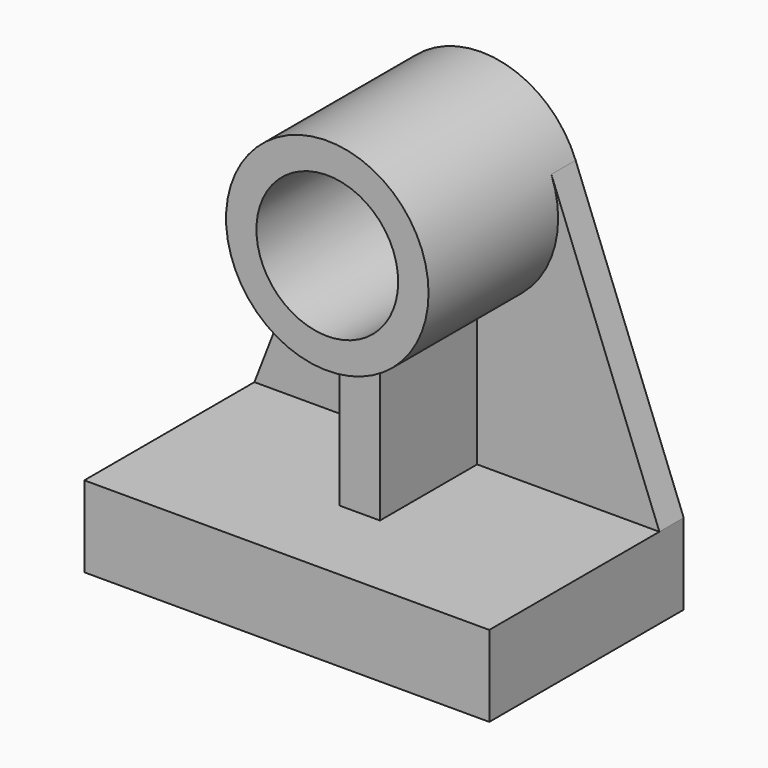
from build123d import *

# Parameters (mm, degrees)
F0_R     = 44.45
F1_DEPTH = 19.05
F2_W     = 254
F2_H     = 50.8
F3_DEPTH = 133.35
F4_R     = 63.5
F4_R_2   = 44.45
F5_DEPTH = 101.6
F7_DEPTH = 76.2


with BuildPart() as f1:
    # F0 (on Front) → F1 (new body)
    with BuildSketch(Plane.XZ):
        with BuildLine():
            Line((-137.7003500163, 50.8), (-137.7003500163, 0))
            Line((-137.7003500163, 0), (116.2996499837, 0))
            Line((116.2996499837, 0), (116.2996499837, 50.8))
            Line((116.2996499837, 50.8), (48.5273968003, 226.0981223472))
            ThreePointArc((48.5273968003, 226.0981223472), (-10.7003500163, 266.7), (-69.9280968329, 226.0981223472))
            Line((-69.9280968329, 226.0981223472), (-137.7003500163, 50.8))
        make_face()
        with Locations((-10.7003500163, 203.2)):
            Circle(F0_R, mode=Mode.SUBTRACT)
    extrude(amount=F1_DEPTH)

    # F2 (on face) → F3 (join)
    with BuildSketch(Plane.XZ.offset(19.05)):
        with Locations((-10.7003500163, 25.4)):
            Rectangle(F2_W, F2_H)
    extrude(amount=F3_DEPTH)

    # F4 (on face) → F5 (join)
    with BuildSketch(Plane.XZ.offset(19.05)):
        with Locations((-10.7003500163, 203.2)):
            Circle(F4_R)
        with Locations((-10.7003500163, 203.2)):
            Circle(F4_R_2, mode=Mode.SUBTRACT)
    extrude(amount=F5_DEPTH)

    # F6 (on face) → F7 (join)
    with BuildSketch(Plane.XZ.offset(19.05)):
        with BuildLine():
            Line((1.9996499837, 50.8), (1.9996499837, 140.9829605333))
            ThreePointArc((1.9996499837, 140.9829605333), (-10.7003500163, 139.7), (-23.4003500163, 140.9829605333))
            Line((-23.4003500163, 140.9829605333), (-23.4003500163, 50.8))
            Line((-23.4003500163, 50.8), (1.9996499837, 50.8))
        make_face()
    extrude(amount=F7_DEPTH)


solid = f1.part
